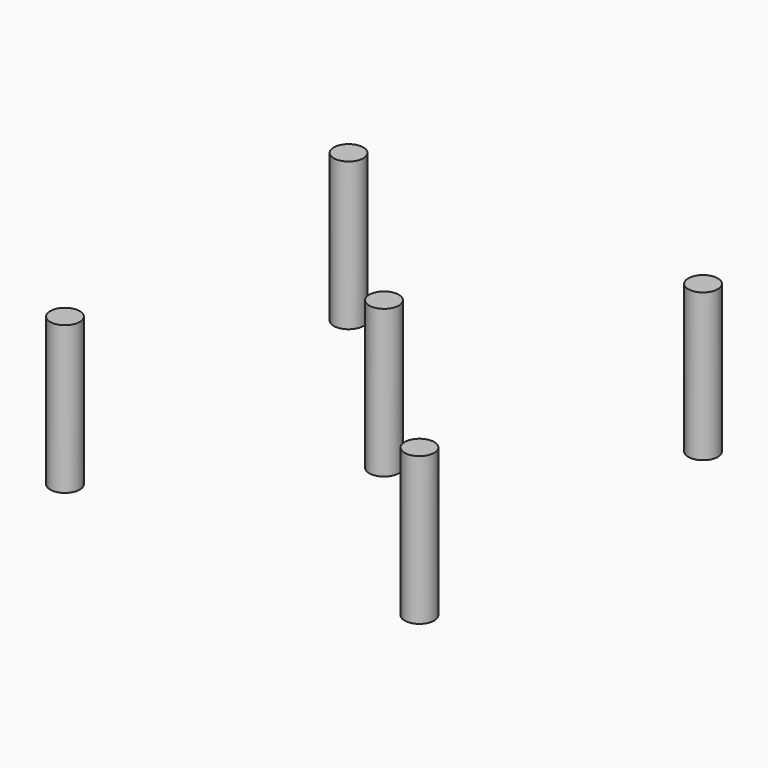
from build123d import *

# Parameters (mm, degrees)
F0_R     = 2.5
F1_DEPTH = 25


with BuildPart() as f1:
    # F0 (on Top) → F1 (new body)
    with BuildSketch(Plane.XY):
        Circle(F0_R)
        with Locations((30, 30)):
            Circle(F0_R)
        with Locations((-30, 30)):
            Circle(F0_R)
        with Locations((-30, -30)):
            Circle(F0_R)
        with Locations((30, -30)):
            Circle(F0_R)
    extrude(amount=-F1_DEPTH)


solid = f1.part
